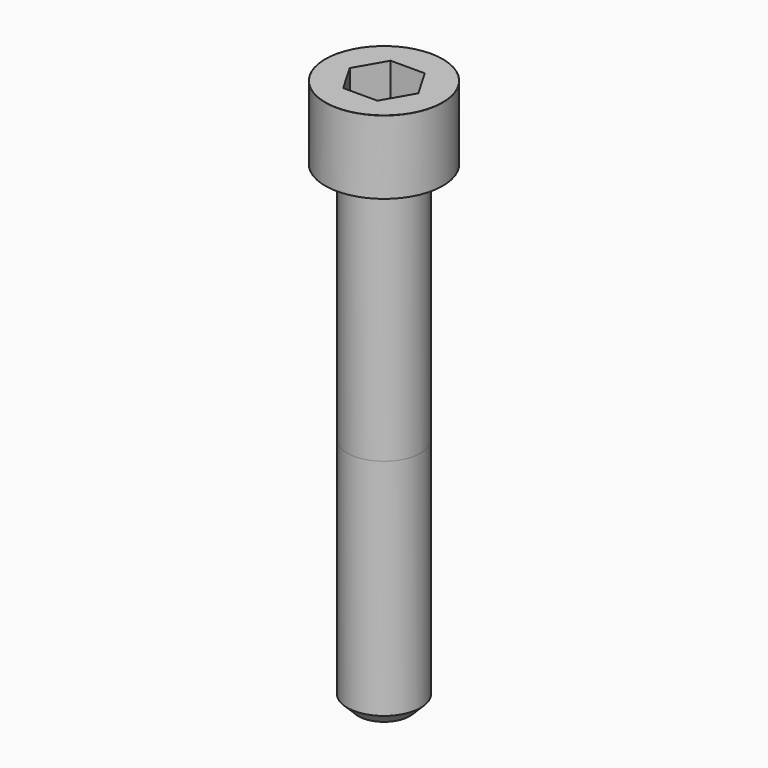
from build123d import *

# Parameters (mm, degrees)
POCKET_DEPTH = 8.07


with BuildPart() as part:
    # Sketch → Revolve (revolve)
    with BuildSketch(Plane.YZ):
        with BuildLine():
            Line((4.999, 0), (8, 0))
            Line((8, 0), (8, 9.97229))
            ThreePointArc((8, 9.97229), (7.991884, 9.991884), (7.97229, 10))
            Line((7.97229, 10), (0, 10))
            Line((0, -65), (0, 10))
            Line((3.5, -65), (0, -65))
            Line((5, -63.5), (3.5, -65))
            Line((5, -33), (5, -63.5))
            Line((4.999, 0), (5, -33))
        make_face()
    revolve(axis=Axis((0, 0, 0), (0, 0, 1)))

    # Sketch001 → Pocket (cut)
    with BuildSketch(Plane.XY.offset(10)):
        Polygon((4.659217, 0), (2.329608, 4.035), (-2.329608, 4.035), (-4.659217, 0), (-2.329608, -4.035), (2.329608, -4.035), align=None)
    extrude(amount=-POCKET_DEPTH, mode=Mode.SUBTRACT)


solid = part.part
